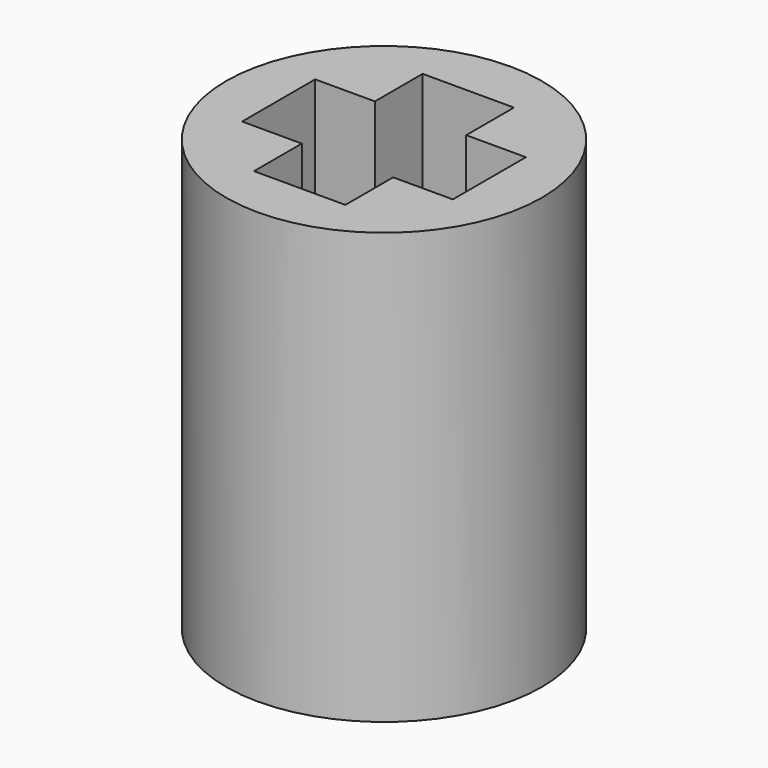
from build123d import *

# Parameters (mm, degrees)
SKETCH032_R     = 5.5
PAD020_DEPTH    = 6
SKETCH033_R     = 5.5
PAD021_DEPTH    = 1
SKETCH034_R     = 1.9
POCKET010_DEPTH = 5
SKETCH035_R     = 5.5
PAD022_DEPTH    = 8


with BuildPart() as part:
    # Sketch032 → Pad020 (new body)
    with BuildSketch(Plane.XY):
        Circle(SKETCH032_R)
        with BuildLine():
            Line((-2.3, 1.926136), (-2.3, -1.926136))
            ThreePointArc((-2.3, -1.926136), (0, -3), (2.3, -1.926136))
            Line((2.3, 1.926136), (2.3, -1.926136))
            ThreePointArc((2.3, 1.926136), (0, 3), (-2.3, 1.926136))
        make_face(mode=Mode.SUBTRACT)
    extrude(amount=PAD020_DEPTH)

    # Sketch033 (on Face7 of Pad020) → Pad021 (join)
    with BuildSketch(Plane.XY.offset(6)):
        Circle(SKETCH033_R)
    extrude(amount=PAD021_DEPTH)

    # Sketch034 (on Face1 of Pad021) → Pocket010 (cut)
    with BuildSketch(Plane.XY.offset(7)):
        Circle(SKETCH034_R)
    extrude(amount=-POCKET010_DEPTH, mode=Mode.SUBTRACT)

    # Sketch035 (on Face1 of Pocket010) → Pad022 (join)
    with BuildSketch(Plane.XY.offset(7)):
        Circle(SKETCH035_R)
        Polygon((-3.66998, -1.59099), (-3.66998, 1.59099), (-1.59099, 1.59099), (-1.59099, 3.66998), (1.59099, 3.66998), (1.59099, 1.59099), (3.66998, 1.59099), (3.66998, -1.59099), (1.59099, -1.59099), (1.59099, -3.66998), (-1.59099, -3.66998), (-1.59099, -1.59099), align=None, mode=Mode.SUBTRACT)
    extrude(amount=PAD022_DEPTH)


solid = part.part
